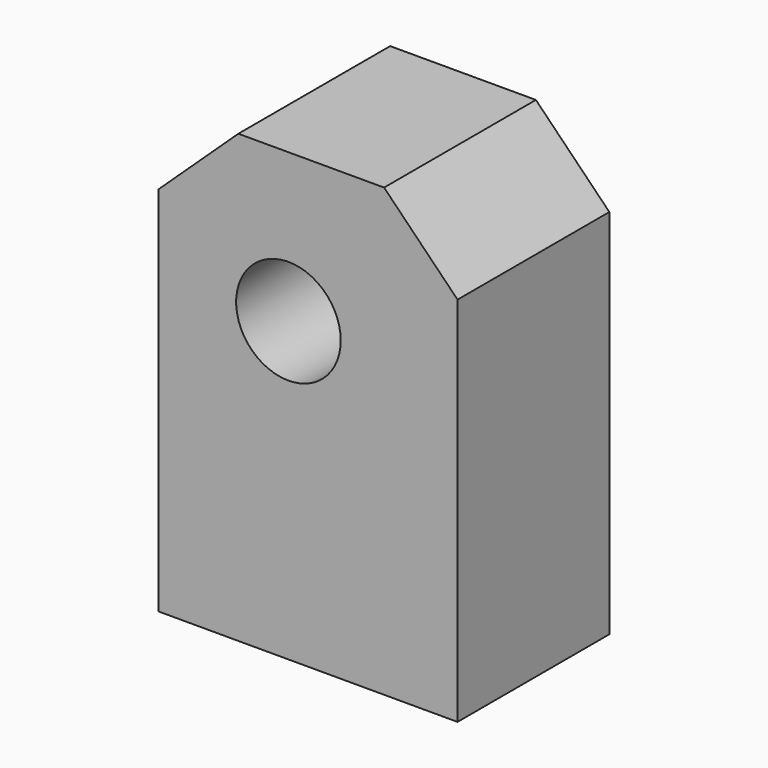
from build123d import *

# Parameters (mm, degrees)
F0_R     = 6.9977
F1_DEPTH = 25.4


with BuildPart() as f1:
    # F0 (on Front) → F1 (new body)
    with BuildSketch(Plane.XZ):
        Polygon((-6.7056, 19.9136), (-17.371269, 9.906), (-17.371269, -39.852598), (22.633731, -39.852598), (22.633731, -37.0332), (22.633731, 9.906), (12.801602, 19.9136), align=None)
        Circle(F0_R, mode=Mode.SUBTRACT)
    extrude(amount=F1_DEPTH)


solid = f1.part
